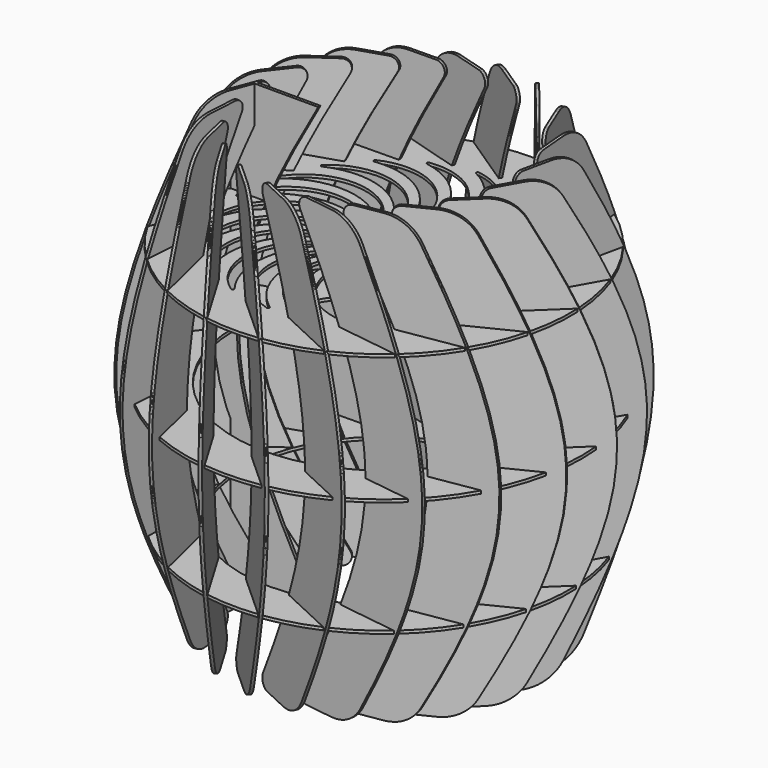
from build123d import *

# Parameters (mm, degrees)
F2_DEPTH  = 1
F3_ANGLE  = 35
F4_R      = 6
F5_R      = 26.2011750867
F6_COUNT  = 21
F8_R      = 130.384947846
F8_R_2    = 15
F9_DEPTH  = 2
F12_R     = 129.7216363691
F12_R_2   = 99.4777313979
F13_DEPTH = 2
F14_R     = 138.2379074405
F14_R_2   = 104.1927416144
F15_DEPTH = 1


with BuildPart() as f2:
    # F1 (on Front) → F2 (new body, symmetric)
    with BuildSketch(Plane.XZ):
        with BuildLine():
            Line((-104.4341426834, -86.1154273188), (-126.0710740243, -86.1154273188))
            add(Edge.make_bspline(
                [(-126.0710740243, -86.1154273188), (-117.014025917, -106.9462144869), (-104.9903345756, -129.7678584647), (-90, -155.8845726812)],
                knots=[250.0688663568, 250.0688663568, 250.0688663568, 250.0688663568, 311.7691453624, 311.7691453624, 311.7691453624, 311.7691453624], degree=3))
            Line((-90, -155.8845726812), (-45, -155.8845726812))
            add(Edge.make_bspline(
                [(-81.0710740243, -86.1154273188), (-72.014025917, -106.9462144869), (-59.9903345756, -129.7678584647), (-45, -155.8845726812)],
                knots=[250.0688663568, 250.0688663568, 250.0688663568, 250.0688663568, 311.7691453624, 311.7691453624, 311.7691453624, 311.7691453624], degree=3))
            Line((-81.0710740243, -86.1154273188), (-104.4341426834, -86.1154273188))
        make_face()
        with BuildLine():
            add(Edge.make_bspline(
                [(-126.0710740243, 86.1154273188), (-126.361820762, 85.4467234165), (-126.649510315, 84.7800711316), (-126.9341426834, 84.1154273188)],
                knots=[61.7002790056, 61.7002790056, 61.7002790056, 61.7002790056, 63.6809635094, 63.6809635094, 63.6809635094, 63.6809635094], degree=3))
            Line((-126.9341426834, 84.1154273188), (-104.4341426834, 84.1154273188))
            Line((-104.4341426834, 84.1154273188), (-104.4341426834, 86.1154273188))
            Line((-104.4341426834, 86.1154273188), (-126.0710740243, 86.1154273188))
        make_face()
        with BuildLine():
            add(Edge.make_bspline(
                [(-90, 155.8845726812), (-104.9903345756, 129.7678584647), (-117.014025917, 106.9462144869), (-126.0710740243, 86.1154273188)],
                knots=[0, 0, 0, 0, 61.7002790056, 61.7002790056, 61.7002790056, 61.7002790056], degree=3))
            Line((-126.0710740243, 86.1154273188), (-104.4341426834, 86.1154273188))
            Line((-104.4341426834, 86.1154273188), (-81.0710740243, 86.1154273188))
            add(Edge.make_bspline(
                [(-45, 155.8845726812), (-59.9903345756, 129.7678584647), (-72.014025917, 106.9462144869), (-81.0710740243, 86.1154273188)],
                knots=[0, 0, 0, 0, 61.7002790056, 61.7002790056, 61.7002790056, 61.7002790056], degree=3))
            Line((-45, 155.8845726812), (-90, 155.8845726812))
        make_face()
        with BuildLine():
            Line((-104.4341426834, 84.1154273188), (-126.9341426834, 84.1154273188))
            add(Edge.make_bspline(
                [(-126.9341426834, 84.1154273188), (-153.4342052624, 22.2352457618), (-153.4342052624, -22.2352457618), (-126.9341426834, -84.1154273188)],
                knots=[63.6809635094, 63.6809635094, 63.6809635094, 63.6809635094, 248.088181853, 248.088181853, 248.088181853, 248.088181853], degree=3))
            Line((-126.9341426834, -84.1154273188), (-104.4341426834, -84.1154273188))
            Line((-104.4341426834, -84.1154273188), (-81.9341426834, -84.1154273188))
            add(Edge.make_bspline(
                [(-101.8060657135, -1), (-101.6420322367, -27.2550133207), (-95.0180578934, -53.5632334794), (-81.9341426834, -84.1154273188)],
                knots=[157.040532372, 157.040532372, 157.040532372, 157.040532372, 248.088181853, 248.088181853, 248.088181853, 248.088181853], degree=3))
            Line((-101.8060657135, -1), (-124.3091896176, -1))
            Line((-124.3091896176, -1), (-124.3091896176, 1))
            Line((-124.3091896176, 1), (-101.8060657135, 1))
            add(Edge.make_bspline(
                [(-81.9341426834, 84.1154273188), (-95.0180578934, 53.5632334794), (-101.6420322367, 27.2550133207), (-101.8060657135, 1)],
                knots=[63.6809635094, 63.6809635094, 63.6809635094, 63.6809635094, 154.7286129904, 154.7286129904, 154.7286129904, 154.7286129904], degree=3))
            Line((-81.9341426834, 84.1154273188), (-104.4341426834, 84.1154273188))
        make_face()
        with BuildLine():
            Line((-104.4341426834, -84.1154273188), (-126.9341426834, -84.1154273188))
            add(Edge.make_bspline(
                [(-126.9341426834, -84.1154273188), (-126.649510315, -84.7800711316), (-126.361820762, -85.4467234165), (-126.0710740243, -86.1154273188)],
                knots=[248.088181853, 248.088181853, 248.088181853, 248.088181853, 250.0688663568, 250.0688663568, 250.0688663568, 250.0688663568], degree=3))
            Line((-126.0710740243, -86.1154273188), (-104.4341426834, -86.1154273188))
            Line((-104.4341426834, -86.1154273188), (-104.4341426834, -84.1154273188))
        make_face()
    extrude(amount=F2_DEPTH, both=True)


with BuildPart() as f3_1:
    # F3: copy of F2
    add(f2.part.rotate(Axis((-146.8091896176, 0, 38.4492650628), (0, 0, 1)), F3_ANGLE))

    # F4
    f4_edges = [f3_1.edges().sort_by_distance(p)[0] for p in [
        (-63.698772, 58.804928, 155.884573),
        (-63.698772, 58.804928, -155.884573),
    ]]
    fillet(f4_edges, radius=F4_R)

    # F5
    f5_edges = [f3_1.edges().sort_by_distance(p)[0] for p in [
        (-100.560614, 32.993989, -155.884573),
        (-100.560614, 32.993989, 155.884573),
    ]]
    fillet(f5_edges, radius=F5_R)


with BuildPart() as f6_1:
    # F6: instance of F3_1
    add(f3_1.part.rotate(Axis((0, 0, 58.5577136594), (0, 0, 1)), 1 * 360 / F6_COUNT))


with BuildPart() as f6_2:
    # F6: instance of F3_1
    add(f3_1.part.rotate(Axis((0, 0, 58.5577136594), (0, 0, 1)), 2 * 360 / F6_COUNT))


with BuildPart() as f6_3:
    # F6: instance of F3_1
    add(f3_1.part.rotate(Axis((0, 0, 58.5577136594), (0, 0, 1)), 3 * 360 / F6_COUNT))


with BuildPart() as f6_4:
    # F6: instance of F3_1
    add(f3_1.part.rotate(Axis((0, 0, 58.5577136594), (0, 0, 1)), 4 * 360 / F6_COUNT))


with BuildPart() as f6_5:
    # F6: instance of F3_1
    add(f3_1.part.rotate(Axis((0, 0, 58.5577136594), (0, 0, 1)), 5 * 360 / F6_COUNT))


with BuildPart() as f6_6:
    # F6: instance of F3_1
    add(f3_1.part.rotate(Axis((0, 0, 58.5577136594), (0, 0, 1)), 6 * 360 / F6_COUNT))


with BuildPart() as f6_7:
    # F6: instance of F3_1
    add(f3_1.part.rotate(Axis((0, 0, 58.5577136594), (0, 0, 1)), 7 * 360 / F6_COUNT))


with BuildPart() as f6_8:
    # F6: instance of F3_1
    add(f3_1.part.rotate(Axis((0, 0, 58.5577136594), (0, 0, 1)), 8 * 360 / F6_COUNT))


with BuildPart() as f6_9:
    # F6: instance of F3_1
    add(f3_1.part.rotate(Axis((0, 0, 58.5577136594), (0, 0, 1)), 9 * 360 / F6_COUNT))


with BuildPart() as f6_10:
    # F6: instance of F3_1
    add(f3_1.part.rotate(Axis((0, 0, 58.5577136594), (0, 0, 1)), 10 * 360 / F6_COUNT))


with BuildPart() as f6_11:
    # F6: instance of F3_1
    add(f3_1.part.rotate(Axis((0, 0, 58.5577136594), (0, 0, 1)), 11 * 360 / F6_COUNT))


with BuildPart() as f6_12:
    # F6: instance of F3_1
    add(f3_1.part.rotate(Axis((0, 0, 58.5577136594), (0, 0, 1)), 12 * 360 / F6_COUNT))


with BuildPart() as f6_13:
    # F6: instance of F3_1
    add(f3_1.part.rotate(Axis((0, 0, 58.5577136594), (0, 0, 1)), 13 * 360 / F6_COUNT))


with BuildPart() as f6_14:
    # F6: instance of F3_1
    add(f3_1.part.rotate(Axis((0, 0, 58.5577136594), (0, 0, 1)), 14 * 360 / F6_COUNT))


with BuildPart() as f6_15:
    # F6: instance of F3_1
    add(f3_1.part.rotate(Axis((0, 0, 58.5577136594), (0, 0, 1)), 15 * 360 / F6_COUNT))


with BuildPart() as f6_16:
    # F6: instance of F3_1
    add(f3_1.part.rotate(Axis((0, 0, 58.5577136594), (0, 0, 1)), 16 * 360 / F6_COUNT))


with BuildPart() as f6_17:
    # F6: instance of F3_1
    add(f3_1.part.rotate(Axis((0, 0, 58.5577136594), (0, 0, 1)), 17 * 360 / F6_COUNT))


with BuildPart() as f6_18:
    # F6: instance of F3_1
    add(f3_1.part.rotate(Axis((0, 0, 58.5577136594), (0, 0, 1)), 18 * 360 / F6_COUNT))


with BuildPart() as f6_19:
    # F6: instance of F3_1
    add(f3_1.part.rotate(Axis((0, 0, 58.5577136594), (0, 0, 1)), 19 * 360 / F6_COUNT))


with BuildPart() as f6_20:
    # F6: instance of F3_1
    add(f3_1.part.rotate(Axis((0, 0, 58.5577136594), (0, 0, 1)), 20 * 360 / F6_COUNT))


with BuildPart() as f9:
    # F8 (on plane+point) → F9 (new body)
    with BuildSketch(Plane.XY.offset(84.1154273188)):
        Circle(F8_R)
        with BuildLine():
            ThreePointArc((-18.4253962646, -15.5734966576), (-17.2508390114, -16.1279580475), (-17.6146577792, -17.374813323))
            ThreePointArc((-17.6146577792, -17.374813323), (-40.32258365, -52.0430656418), (-30.3985589716, -92.2805028163))
            ThreePointArc((-30.3985589716, -92.2805028163), (-30.4688820439, -93.5774480116), (-31.7608526104, -93.7109554239))
            ThreePointArc((-31.7608526104, -93.7109554239), (-50.0242162297, -50.3873207559), (-18.4253962646, -15.5734966576))
        make_face(mode=Mode.SUBTRACT)
        with BuildLine():
            ThreePointArc((-22.1971763298, -9.4506290074), (-21.2382317235, -10.3266640615), (-21.9534040884, -11.4108875911))
            ThreePointArc((-21.9534040884, -11.4108875911), (-53.8711272851, -37.8456480806), (-56.2481919907, -79.220606444))
            ThreePointArc((-56.2481919907, -79.220606444), (-56.6976721135, -80.4392039137), (-57.9715960533, -80.1859649567))
            ThreePointArc((-57.9715960533, -80.1859649567), (-62.6537041773, -33.4038568912), (-22.1971763298, -9.4506290074))
        make_face(mode=Mode.SUBTRACT)
        with BuildLine():
            ThreePointArc((-13.0164388828, -20.3125907865), (-11.7306335491, -20.4962121846), (-11.7107718257, -21.794910643))
            ThreePointArc((-11.7107718257, -21.794910643), (-23.1912015048, -61.6162284335), (-1.847880586, -97.1408715471))
            ThreePointArc((-1.847880586, -97.1408715471), (-1.5327980943, -98.4009251957), (-2.7280180329, -98.9093162579))
            ThreePointArc((-2.7280180329, -98.9093162579), (-32.9498571423, -62.8936500503), (-13.0164388828, -20.3125907865))
        make_face(mode=Mode.SUBTRACT)
        with BuildLine():
            ThreePointArc((-23.9966398674, -2.4880314965), (-23.3385143445, -3.6078006558), (-24.3414941035, -4.433054421))
            ThreePointArc((-24.3414941035, -4.433054421), (-62.6329848514, -20.2854786045), (-77.0999263103, -59.1216115353))
            ThreePointArc((-77.0999263103, -59.1216115353), (-77.8886252021, -60.1535835466), (-79.0313087827, -59.5360996127))
            ThreePointArc((-79.0313087827, -59.5360996127), (-69.7161355576, -13.4523137513), (-23.9966398674, -2.4880314965))
        make_face(mode=Mode.SUBTRACT)
        with BuildLine():
            ThreePointArc((-23.6638966452, 4.6956385313), (-23.3650675466, 3.4316316707), (-24.5667355465, 2.9386750886))
            ThreePointArc((-24.5667355465, 2.9386750886), (-65.8296268533, -0.9228553331), (-91.1009938298, -33.7694019907))
            ThreePointArc((-91.1009938298, -33.7694019907), (-92.1588321329, -34.5230533016), (-93.0687429035, -33.5961905484))
            ThreePointArc((-93.0687429035, -33.5961905484), (-70.5839823493, 7.6945264999), (-23.6638966452, 4.6956385313))
        make_face(mode=Mode.SUBTRACT)
        with BuildLine():
            ThreePointArc((-6.4509137846, -23.2468220838), (-5.168109817, -23.0432879229), (-4.7663324036, -24.2784345069))
            ThreePointArc((-4.7663324036, -24.2784345069), (-3.9991793331, -65.7145189305), (26.8669900989, -93.3698475452))
            ThreePointArc((26.8669900989, -93.3698475452), (27.5394816926, -94.4810483508), (26.5472129185, -95.3191502861))
            ThreePointArc((26.5472129185, -95.3191502861), (-12.9477586498, -69.8116025335), (-6.4509137846, -23.2468220838))
        make_face(mode=Mode.SUBTRACT)
        with BuildLine():
            ThreePointArc((0.6878033128, -24.1154712219), (1.8536231523, -23.5428664055), (2.6016165693, -24.6047129208))
            ThreePointArc((2.6016165693, -24.6047129208), (15.5481874725, -63.9737860371), (53.1946108098, -81.3025028421))
            ThreePointArc((53.1946108098, -81.3025028421), (54.164757676, -82.1661157367), (53.4636075016, -83.2594595101))
            ThreePointArc((53.4636075016, -83.2594595101), (8.204805019, -70.5264877684), (0.6878033128, -24.1154712219))
        make_face(mode=Mode.SUBTRACT)
        with BuildLine():
            ThreePointArc((7.7654060675, -22.8413549129), (8.71065357, -21.9505578918), (9.738400493, -22.7447546156))
            ThreePointArc((9.738400493, -22.7447546156), (33.7140295891, -56.54870151), (74.7956569095, -62.0110739713))
            ThreePointArc((74.7956569095, -62.0110739713), (75.9772572418, -62.5503631594), (75.629525937, -63.8018003785))
            ThreePointArc((75.629525937, -63.8018003785), (28.6283357557, -64.9747850647), (7.7654060675, -22.8413549129))
        make_face(mode=Mode.SUBTRACT)
        with BuildLine():
            ThreePointArc((14.1530184151, -19.5376839823), (14.7937041919, -18.407845981), (16.0098847966, -18.8638250492))
            ThreePointArc((16.0098847966, -18.8638250492), (48.8842322251, -44.0990166939), (89.7507806574, -37.209689047))
            ThreePointArc((89.7507806574, -37.209689047), (91.038844081, -37.3767363176), (91.0754290982, -38.6750712937))
            ThreePointArc((91.0754290982, -38.6750712937), (46.5081132271, -53.6497875709), (14.1530184151, -19.5376839823))
        make_face(mode=Mode.SUBTRACT)
        with BuildLine():
            ThreePointArc((19.2830729671, -14.4980040902), (19.5622692753, -13.2295161733), (20.8588205779, -13.3067618446))
            ThreePointArc((20.8588205779, -13.3067618446), (59.710856303, -27.7309407191), (96.7311536791, -9.1020599589))
            ThreePointArc((96.7311536791, -9.1020599589), (98.0112301062, -8.8820224288), (98.4288807061, -10.1118924018))
            ThreePointArc((98.4288807061, -10.1118924018), (60.2554407408, -37.5577710132), (19.2830729671, -14.4980040902))
        make_face(mode=Mode.SUBTRACT)
        with BuildLine():
            ThreePointArc((22.6997418635, -8.1701129112), (22.592640886, -6.8756857968), (23.8543586133, -6.5673344543))
            ThreePointArc((23.8543586133, -6.5673344543), (65.2319087616, -8.8988489662), (95.1165391988, 19.8143271003))
            ThreePointArc((95.1165391988, 19.8143271003), (96.2748882213, 20.4018981308), (97.0364943152, 19.3497725054))
            ThreePointArc((97.0364943152, 19.3497725054), (68.6488079181, -18.1285816814), (22.6997418635, -8.1701129112))
        make_face(mode=Mode.SUBTRACT)
        with BuildLine():
            ThreePointArc((-21.2285123588, 11.4620804692), (-21.3155319612, 10.1661484638), (-22.6091147269, 10.0492904205))
            ThreePointArc((-22.6091147269, 10.0492904205), (-63.1770176207, 18.5217676845), (-97.0073382574, -5.4166328847))
            ThreePointArc((-97.0073382574, -5.4166328847), (-98.2403223963, -5.8249982689), (-98.8366107919, -4.6711125193))
            ThreePointArc((-98.8366107919, -4.6711125193), (-65.1801325566, 28.1576743047), (-21.2285123588, 11.4620804692))
        make_face(mode=Mode.SUBTRACT)
        with BuildLine():
            ThreePointArc((-16.9068815895, 17.2100662569), (-17.3720178195, 15.9973583525), (-18.6425748453, 16.2669821978))
            ThreePointArc((-18.6425748453, 16.2669821978), (-54.9108531248, 36.320650362), (-94.2941549711, 23.4174278237))
            ThreePointArc((-94.2941549711, 23.4174278237), (-95.5927288943, 23.3906334226), (-95.8224120741, 24.6690143559))
            ThreePointArc((-95.8224120741, 24.6690143559), (-53.984741948, 46.1188891796), (-16.9068815895, 17.2100662569))
        make_face(mode=Mode.SUBTRACT)
        with BuildLine():
            ThreePointArc((-11.0830001964, 21.4288621326), (-11.8849236586, 20.4071327483), (-13.0195603772, 21.0392812205))
            ThreePointArc((-13.0195603772, 21.0392812205), (-41.7656183564, 50.8922838642), (-83.2025222125, 50.1707473042))
            ThreePointArc((-83.2025222125, 50.1707473042), (-84.4513019282, 50.5279046864), (-84.2939715338, 51.8171910475))
            ThreePointArc((-84.2939715338, 51.8171910475), (-37.9925701091, 59.9822383615), (-11.0830001964, 21.4288621326))
        make_face(mode=Mode.SUBTRACT)
        with BuildLine():
            ThreePointArc((-4.2743455989, 23.7436095687), (-5.3418018746, 23.0036438442), (-6.2397008341, 23.9421477773))
            ThreePointArc((-6.2397008341, 23.9421477773), (-24.9093251116, 60.941914608), (-64.7179802271, 72.4661757161))
            ThreePointArc((-64.7179802271, 72.4661757161), (-65.8060061774, 73.1755498807), (-65.2756417048, 74.3611829184))
            ThreePointArc((-65.2756417048, 74.3611829184), (-18.6245916884, 68.5159024372), (-4.2743455989, 23.7436095687))
        make_face(mode=Mode.SUBTRACT)
        with BuildLine():
            ThreePointArc((2.9141033627, 23.9486330976), (1.6759624482, 23.5561802347), (1.0945835106, 24.7176494357))
            ThreePointArc((1.0945835106, 24.7176494357), (-5.8397290179, 65.5765887997), (-40.4829616884, 88.3226664029))
            ThreePointArc((-40.4829616884, 88.3226664029), (-41.3135579928, 89.3212263426), (-40.4572846528, 90.2978573584))
            ThreePointArc((-40.4572846528, 90.2978573584), (2.3982634365, 70.9616279044), (2.9141033627, 23.9486330976))
        make_face(mode=Mode.SUBTRACT)
        Circle(F8_R_2, mode=Mode.SUBTRACT)
        with BuildLine():
            ThreePointArc((24.0994390792, -1.116271346), (23.6155572078, 0.0890794362), (24.7303322029, 0.7556294225))
            ThreePointArc((24.7303322029, 0.7556294225), (64.9568198612, 10.7239445693), (85.0504027986, 46.9701242429))
            ThreePointArc((85.0504027986, 46.9701242429), (85.9841000225, 47.8730205093), (87.0219895668, 47.0921252104))
            ThreePointArc((87.0219895668, 47.0921252104), (70.9424272515, 2.9114116888), (24.0994390792, -1.116271346))
        make_face(mode=Mode.SUBTRACT)
        with BuildLine():
            ThreePointArc((9.8436214523, 22.0257154789), (8.5448101525, 22.0156466368), (8.3316093068, 23.2968794702))
            ThreePointArc((8.3316093068, 23.2968794702), (13.7487526262, 64.3844952984), (-12.6508543471, 96.3313005823))
            ThreePointArc((-12.6508543471, 96.3313005823), (-13.150218879, 97.5303198641), (-12.0441203155, 98.2111709065))
            ThreePointArc((-12.0441203155, 98.2111709065), (23.2080223305, 67.1021013222), (9.8436214523, 22.0257154789))
        make_face(mode=Mode.SUBTRACT)
        with BuildLine():
            ThreePointArc((15.8984905777, 18.1457163816), (14.6544139766, 18.5189262211), (14.8283350535, 19.806079527))
            ThreePointArc((14.8283350535, 19.806079527), (32.1155972641, 57.4715568431), (16.3053369204, 95.780475962))
            ThreePointArc((16.3053369204, 95.780475962), (16.181574891, 97.073416461), (17.4392169665, 97.3979909269))
            ThreePointArc((17.4392169665, 97.3979909269), (41.9556465936, 57.2802585649), (15.8984905777, 18.1457163816))
        make_face(mode=Mode.SUBTRACT)
        with BuildLine():
            ThreePointArc((23.3577953741, 6.0367558268), (22.5401276365, 7.0459295704), (23.4089072489, 8.0114523091))
            ThreePointArc((23.4089072489, 8.0114523091), (58.9100324578, 29.3938685685), (67.4271648721, 69.9524197215))
            ThreePointArc((67.4271648721, 69.9524197215), (68.0532472017, 71.0904149282), (69.2751991556, 70.6501359301))
            ThreePointArc((69.2751991556, 70.6501359301), (66.9325005978, 23.6927133539), (23.3577953741, 6.0367558268))
        make_face(mode=Mode.SUBTRACT)
        with BuildLine():
            ThreePointArc((20.540709046, 12.6533907527), (19.4619088089, 13.3767179417), (20.0074981576, 14.5554225003))
            ThreePointArc((20.0074981576, 14.5554225003), (47.6288301482, 45.4520183526), (43.8127274476, 86.7191357267))
            ThreePointArc((43.8127274476, 86.7191357267), (44.0755647203, 87.9911140056), (45.3730032903, 87.9305720294))
            ThreePointArc((45.3730032903, 87.9305720294), (56.9753275377, 42.3688134638), (20.540709046, 12.6533907527))
        make_face(mode=Mode.SUBTRACT)
    extrude(amount=F9_DEPTH)

    # F10: cut F6_2, F6_3, F3_1, F6_1, F6_4, F6_20, F6_5, F6_6, F6_19, F6_18, F6_7, F6_17, F6_16, F6_15, F6_8, F6_9, F6_10, F6_11, F6_14, F6_13, F6_12
    add(f6_2.part, mode=Mode.SUBTRACT)
    add(f6_3.part, mode=Mode.SUBTRACT)
    add(f3_1.part, mode=Mode.SUBTRACT)
    add(f6_1.part, mode=Mode.SUBTRACT)
    add(f6_4.part, mode=Mode.SUBTRACT)
    add(f6_20.part, mode=Mode.SUBTRACT)
    add(f6_5.part, mode=Mode.SUBTRACT)
    add(f6_6.part, mode=Mode.SUBTRACT)
    add(f6_19.part, mode=Mode.SUBTRACT)
    add(f6_18.part, mode=Mode.SUBTRACT)
    add(f6_7.part, mode=Mode.SUBTRACT)
    add(f6_17.part, mode=Mode.SUBTRACT)
    add(f6_16.part, mode=Mode.SUBTRACT)
    add(f6_15.part, mode=Mode.SUBTRACT)
    add(f6_8.part, mode=Mode.SUBTRACT)
    add(f6_9.part, mode=Mode.SUBTRACT)
    add(f6_10.part, mode=Mode.SUBTRACT)
    add(f6_11.part, mode=Mode.SUBTRACT)
    add(f6_14.part, mode=Mode.SUBTRACT)
    add(f6_13.part, mode=Mode.SUBTRACT)
    add(f6_12.part, mode=Mode.SUBTRACT)


with BuildPart() as f13:
    # F12 (on plane+point) → F13 (new body)
    with BuildSketch(Plane.XY.offset(-86.1154273188)):
        Circle(F12_R)
        Circle(F12_R_2, mode=Mode.SUBTRACT)
    extrude(amount=F13_DEPTH)

    # F16: cut F6_10, F6_11, F6_12, F6_13, F6_14, F6_15, F6_16, F6_17, F6_8, F6_9, F6_6, F6_7, F6_4, F6_5, F6_2, F6_3, F6_1, F3_1, F6_20, F6_18, F6_19
    add(f6_10.part, mode=Mode.SUBTRACT)
    add(f6_11.part, mode=Mode.SUBTRACT)
    add(f6_12.part, mode=Mode.SUBTRACT)
    add(f6_13.part, mode=Mode.SUBTRACT)
    add(f6_14.part, mode=Mode.SUBTRACT)
    add(f6_15.part, mode=Mode.SUBTRACT)
    add(f6_16.part, mode=Mode.SUBTRACT)
    add(f6_17.part, mode=Mode.SUBTRACT)
    add(f6_8.part, mode=Mode.SUBTRACT)
    add(f6_9.part, mode=Mode.SUBTRACT)
    add(f6_6.part, mode=Mode.SUBTRACT)
    add(f6_7.part, mode=Mode.SUBTRACT)
    add(f6_4.part, mode=Mode.SUBTRACT)
    add(f6_5.part, mode=Mode.SUBTRACT)
    add(f6_2.part, mode=Mode.SUBTRACT)
    add(f6_3.part, mode=Mode.SUBTRACT)
    add(f6_1.part, mode=Mode.SUBTRACT)
    add(f3_1.part, mode=Mode.SUBTRACT)
    add(f6_20.part, mode=Mode.SUBTRACT)
    add(f6_18.part, mode=Mode.SUBTRACT)
    add(f6_19.part, mode=Mode.SUBTRACT)


with BuildPart() as f15:
    # F14 (on Top) → F15 (new body, symmetric)
    with BuildSketch(Plane.XY):
        Circle(F14_R)
        Circle(F14_R_2, mode=Mode.SUBTRACT)
    extrude(amount=F15_DEPTH, both=True)

    # F17: cut F6_1, F6_2, F3_1, F6_20, F6_19, F6_18, F6_17, F6_3, F6_16, F6_4, F6_5, F6_15, F6_6, F6_14, F6_13, F6_7, F6_8, F6_9, F6_10, F6_11, F6_12
    add(f6_1.part, mode=Mode.SUBTRACT)
    add(f6_2.part, mode=Mode.SUBTRACT)
    add(f3_1.part, mode=Mode.SUBTRACT)
    add(f6_20.part, mode=Mode.SUBTRACT)
    add(f6_19.part, mode=Mode.SUBTRACT)
    add(f6_18.part, mode=Mode.SUBTRACT)
    add(f6_17.part, mode=Mode.SUBTRACT)
    add(f6_3.part, mode=Mode.SUBTRACT)
    add(f6_16.part, mode=Mode.SUBTRACT)
    add(f6_4.part, mode=Mode.SUBTRACT)
    add(f6_5.part, mode=Mode.SUBTRACT)
    add(f6_15.part, mode=Mode.SUBTRACT)
    add(f6_6.part, mode=Mode.SUBTRACT)
    add(f6_14.part, mode=Mode.SUBTRACT)
    add(f6_13.part, mode=Mode.SUBTRACT)
    add(f6_7.part, mode=Mode.SUBTRACT)
    add(f6_8.part, mode=Mode.SUBTRACT)
    add(f6_9.part, mode=Mode.SUBTRACT)
    add(f6_10.part, mode=Mode.SUBTRACT)
    add(f6_11.part, mode=Mode.SUBTRACT)
    add(f6_12.part, mode=Mode.SUBTRACT)


solid = Compound([f2.part, f3_1.part, f6_1.part, f6_2.part, f6_3.part, f6_4.part, f6_5.part, f6_6.part, f6_7.part, f6_8.part, f6_9.part, f6_10.part, f6_11.part, f6_12.part, f6_13.part, f6_14.part, f6_15.part, f6_16.part, f6_17.part, f6_18.part, f6_19.part, f6_20.part, f9.part, f13.part, f15.part])
